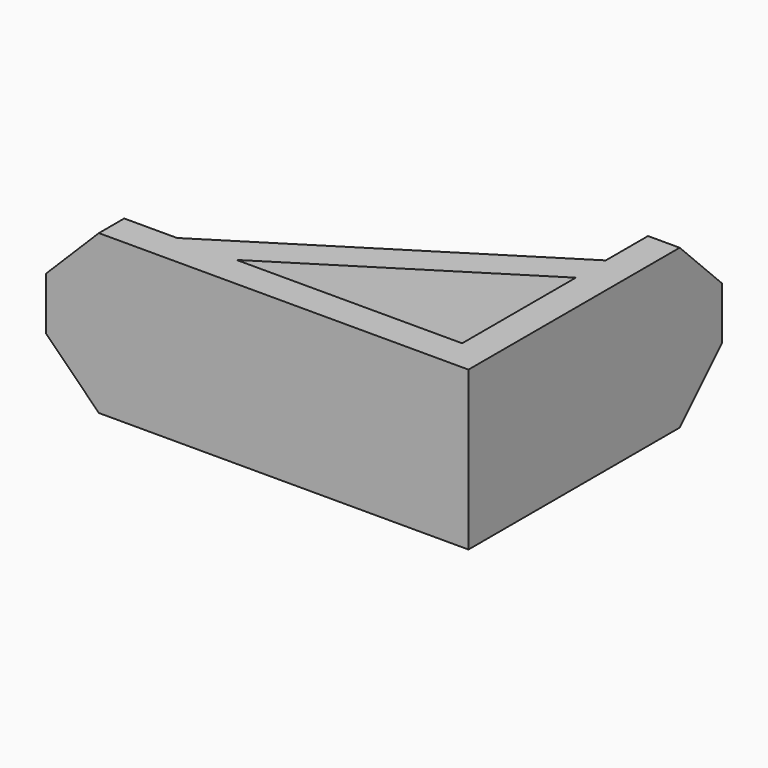
from build123d import *

# Parameters (mm, degrees)
PAD_DEPTH       = 15
CHAMFER_SIZE    = 5
CHAMFER001_SIZE = 5


with BuildPart() as part:
    # Sketch → Pad (new body)
    with BuildSketch(Plane.XY):
        Polygon((0, 0), (-40, 0), (-40, 3), (-30, 3), (-3, 20), (-3, 30), (0, 30), align=None)
        Polygon((-3, 3), (-24.36951, 3), (-3, 16.454876), align=None, mode=Mode.SUBTRACT)
    extrude(amount=PAD_DEPTH)

    # Chamfer
    chamfer_edges = [part.edges().sort_by_distance(p)[0] for p in [
        (-40, 1.5, 0),
        (-40, 1.5, 15),
    ]]
    chamfer(chamfer_edges, length=CHAMFER_SIZE)

    # Chamfer001
    chamfer001_edges = [part.edges().sort_by_distance(p)[0] for p in [
        (-1.5, 30, 0),
        (-1.5, 30, 15),
    ]]
    chamfer(chamfer001_edges, length=CHAMFER001_SIZE)


solid = part.part
